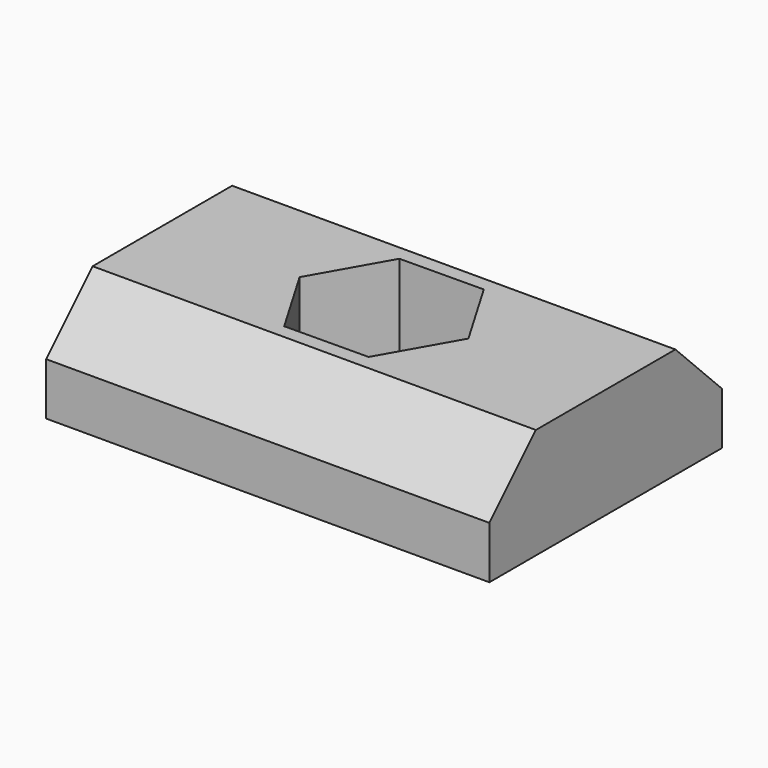
from build123d import *

# Parameters (mm, degrees)
F0_W     = 15.25
F0_H     = 10
F1_DEPTH = 3.8
F2_SIZE2 = 2
F2_SIZE  = 2
F4_DEPTH = 4


with BuildPart() as f1:
    # F0 (on Top) → F1 (new body)
    with BuildSketch(Plane.XY):
        Rectangle(F0_W, F0_H)
    extrude(amount=F1_DEPTH)

    # F2
    f2_edges = [f1.edges().sort_by_distance(p)[0] for p in [
        (0, -5, 3.8),
        (0, 5, 3.8),
    ]]
    chamfer(f2_edges, length=F2_SIZE, length2=F2_SIZE2)

    # F3 (on face) → F4 (cut)
    with BuildSketch(Plane(origin=(0, 0, 0), x_dir=(1, 0, 0), z_dir=(0, 0, -1))):
        Polygon((1.424799, -2.510633), (2.886672, -0.021404), (1.461873, 2.489229), (-1.424799, 2.510633), (-2.886672, 0.021404), (-1.461873, -2.489229), align=None)
    extrude(amount=-F4_DEPTH, mode=Mode.SUBTRACT)


solid = f1.part
